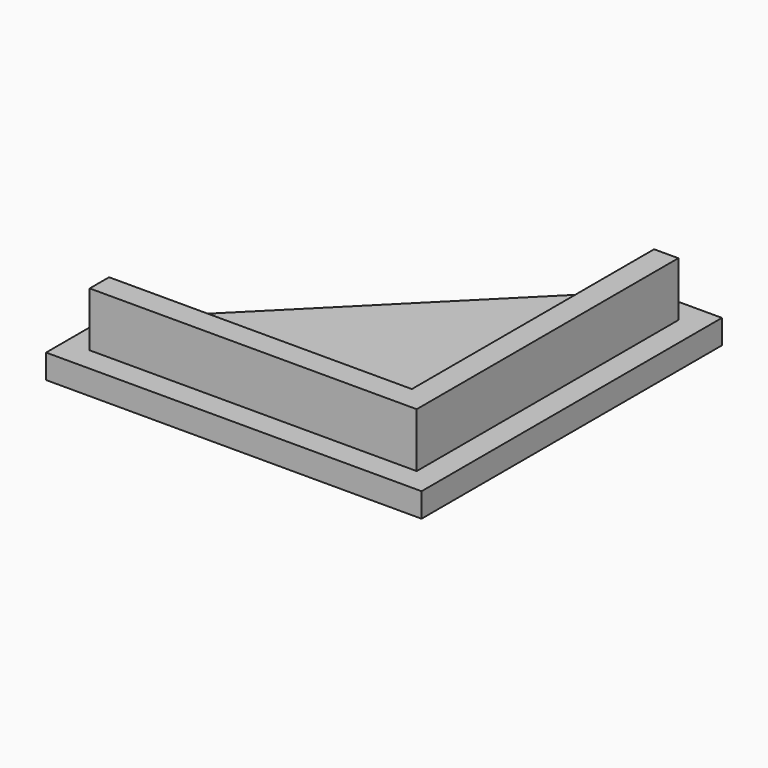
from build123d import *

# Parameters (mm, degrees)
F1_DEPTH = 1.8
F0_W     = 0.8
F0_H     = 0.8
F2_DEPTH = 0.8


with BuildPart() as f1:
    # F0 (on Top) → F1 (new body)
    with BuildSketch(Plane.XY):
        Polygon((-0.4, 10.4), (-0.4, 0.4), (-10.4, 0.4), (-10.4, -0.4), (-0.4, -0.4), (0.4, -0.4), (0.4, 0.4), (0.4, 10.4), align=None)
    extrude(amount=F1_DEPTH)

    # F0 (on Top) + F1_face (on face) → F2 (join)
    with BuildSketch(Plane.XY):
        Polygon((-1.2, 1.2), (-1.2, 11.2), (-11.2, 1.2), align=None)
        Polygon((-10.4, 0.4), (-0.4, 0.4), (-0.4, 10.4), (0.4, 10.4), (0.4, 0.4), (1.2, 0.4), (1.2, 1.2), (1.2, 11.2), (-1.2, 11.2), (-1.2, 1.2), (-11.2, 1.2), (-11.2, -1.2), (-1.2, -1.2), (-0.4, -1.2), (-0.4, -0.4), (-10.4, -0.4), align=None)
        Polygon((-0.4, 10.4), (-0.4, 0.4), (-10.4, 0.4), (-10.4, -0.4), (-0.4, -0.4), (0.4, -0.4), (0.4, 0.4), (0.4, 10.4), align=None)
        with Locations((0, -0.8)):
            Rectangle(F0_W, F0_H)
        with Locations((0.8, 0)):
            Rectangle(F0_W, F0_H)
        with Locations((0.8, -0.8)):
            Rectangle(F0_W, F0_H)
    with BuildSketch(Plane(origin=(-2.5961538462, 2.5961538462, 1.8), x_dir=(1, 0, 0), z_dir=(0, 0, 1))):
        Polygon((2.9961538462, -2.9961538462), (2.9961538462, 7.8038461538), (2.1961538462, 7.8038461538), (2.1961538462, -2.1961538462), (-7.8038461538, -2.1961538462), (-7.8038461538, -2.9961538462), align=None)
    extrude(amount=-F2_DEPTH)


solid = f1.part
